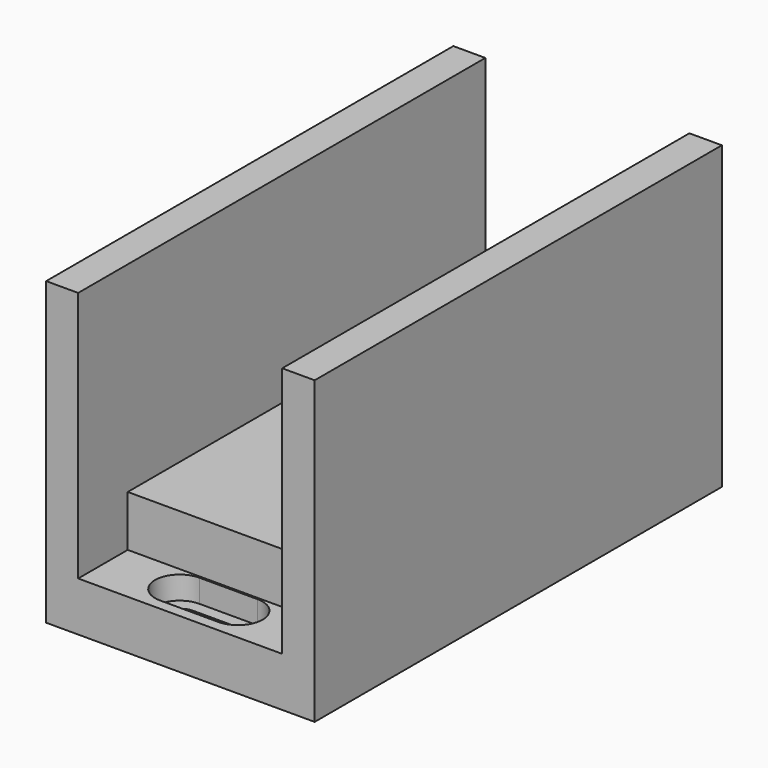
from build123d import *

# Parameters (mm, degrees)
F0_W      = 73.7
F0_H      = 139.7
F1_DEPTH  = 82.55
F2_W      = 56
F2_H      = 55
F3_DEPTH  = 139.701
F4_W      = 56
F4_H      = 14
F5_DEPTH  = 17
F6_W      = 56
F6_H      = 14
F7_DEPTH  = 17
F9_DEPTH  = 6.3
F10_DEPTH = 13.551


with BuildPart() as f1:
    # F0 (on Top) → F1 (new body)
    with BuildSketch(Plane.XY):
        with Locations((36.85, 69.85)):
            Rectangle(F0_W, F0_H)
    extrude(amount=F1_DEPTH)

    # F2 (on face) → F3 (cut, through all)
    with BuildSketch(Plane.XZ):
        with Locations((36.787815, 55.05)):
            Rectangle(F2_W, F2_H)
    extrude(amount=-F3_DEPTH, mode=Mode.SUBTRACT)

    # F4 (on face) → F5 (cut)
    with BuildSketch(Plane.XZ):
        with Locations((36.787815, 20.55)):
            Rectangle(F4_W, F4_H)
    extrude(amount=-F5_DEPTH, mode=Mode.SUBTRACT)

    # F6 (on face) → F7 (cut)
    with BuildSketch(Plane(origin=(0, 139.7, 0), x_dir=(-1, 0, 0), z_dir=(0, 1, 0))):
        with Locations((-36.787815, 20.55)):
            Rectangle(F6_W, F6_H)
    extrude(amount=-F7_DEPTH, mode=Mode.SUBTRACT)

    # F8 (on face) → F9 (cut)
    with BuildSketch(Plane.XY.offset(13.55)):
        with BuildLine():
            Line((44.85, 136.7), (28.85, 136.7))
            ThreePointArc((28.85, 136.7), (22.1, 129.95), (28.85, 123.2))
            Line((28.85, 123.2), (44.85, 123.2))
            ThreePointArc((44.85, 123.2), (51.6, 129.95), (44.85, 136.7))
        make_face()
        with BuildLine():
            ThreePointArc((29.6, 126.55), (26.2, 129.95), (29.6, 133.35))
            Line((29.6, 133.35), (44.1, 133.35))
            ThreePointArc((44.1, 133.35), (47.5, 129.95), (44.1, 126.55))
            Line((44.1, 126.55), (29.6, 126.55))
        make_face(mode=Mode.SUBTRACT)
        with BuildLine():
            ThreePointArc((44.85, 3), (51.6, 9.75), (44.85, 16.5))
            Line((44.85, 16.5), (28.85, 16.5))
            ThreePointArc((28.85, 16.5), (22.1, 9.75), (28.85, 3))
            Line((28.85, 3), (44.85, 3))
        make_face()
        with BuildLine():
            Line((29.6, 13.15), (44.1, 13.15))
            ThreePointArc((44.1, 13.15), (47.5, 9.75), (44.1, 6.35))
            Line((44.1, 6.35), (29.6, 6.35))
            ThreePointArc((29.6, 6.35), (26.2, 9.75), (29.6, 13.15))
        make_face(mode=Mode.SUBTRACT)
    extrude(amount=-F9_DEPTH, mode=Mode.SUBTRACT)

    # F9_face (on face) → F10 (cut, through all)
    with BuildSketch(Plane(origin=(36.85, 129.95, 13.55), x_dir=(1, 0, 0), z_dir=(0, 0, 1))):
        with BuildLine():
            Line((-7.25, -3.4), (7.25, -3.4))
            ThreePointArc((7.25, -3.4), (10.65, 0), (7.25, 3.4))
            Line((7.25, 3.4), (-7.25, 3.4))
            ThreePointArc((-7.25, 3.4), (-10.65, 0), (-7.25, -3.4))
        make_face()
        with BuildLine():
            ThreePointArc((7.25, -123.6), (10.65, -120.2), (7.25, -116.8))
            Line((7.25, -116.8), (-7.25, -116.8))
            ThreePointArc((-7.25, -116.8), (-10.65, -120.2), (-7.25, -123.6))
            Line((-7.25, -123.6), (7.25, -123.6))
        make_face()
    extrude(amount=-F10_DEPTH, mode=Mode.SUBTRACT)


solid = f1.part
